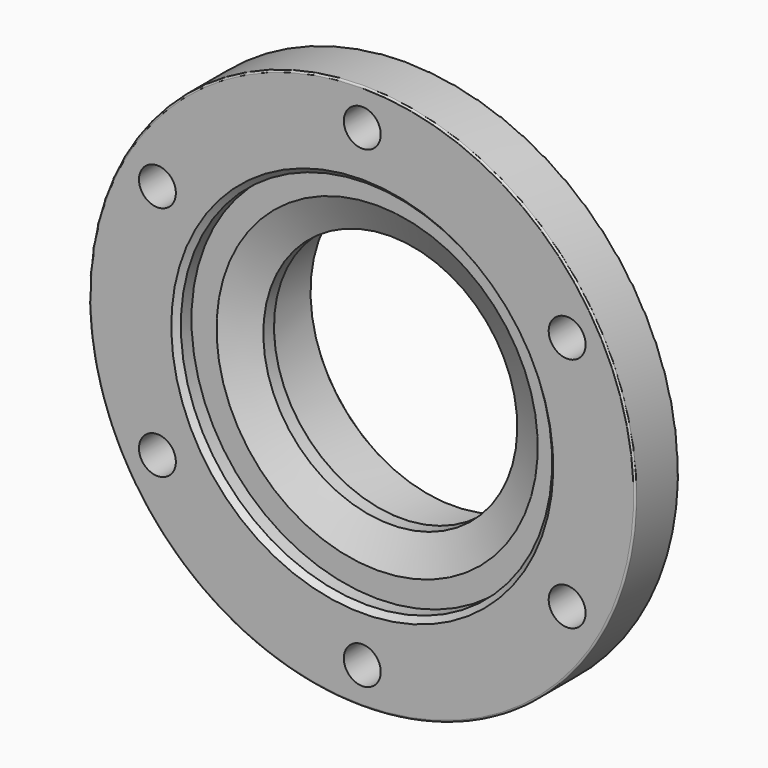
from build123d import *

# Parameters (mm, degrees)
F2_SIZE = 1.5748
F3_R    = 0.508
F5_D    = 10.9474


with BuildPart() as f1:
    # F0 (on Right) → F1 (revolve)
    with BuildSketch(Plane.YZ):
        Polygon((16.1036, 80.9625), (0, 80.9625), (0, 55.0545), (5.5118, 55.0545), (5.5118, 47.625), (10.382705, 37.6555), (14.675305, 37.6555), (14.675305, 42.1894), (35.122305, 42.1894), (35.122305, 52.3113), (16.1036, 52.3113), align=None)
    revolve(axis=Axis((0, 17.561152, 0), (0, -1, 0)))

    # F2
    f2_edges = [f1.edges().sort_by_distance(p)[0] for p in [
        (0, 35.122305, -42.1894),
        (0, 35.122305, -52.3113),
        (0, 0, -55.0545),
    ]]
    chamfer(f2_edges, length=F2_SIZE)

    # F3
    f3_edges = [f1.edges().sort_by_distance(p)[0] for p in [
        (0, 14.675305, -37.6555),
        (0, 16.1036, -80.9625),
        (0, 0, -80.9625),
    ]]
    fillet(f3_edges, radius=F3_R)

    # F5 (through all)
    with Locations(Plane.XZ):
        with Locations((0, 70.1421), (60.74484, 35.07105), (60.74484, -35.07105), (0, -70.1421), (-60.74484, -35.07105), (-60.74484, 35.07105)):
            Hole(F5_D / 2)


solid = f1.part
